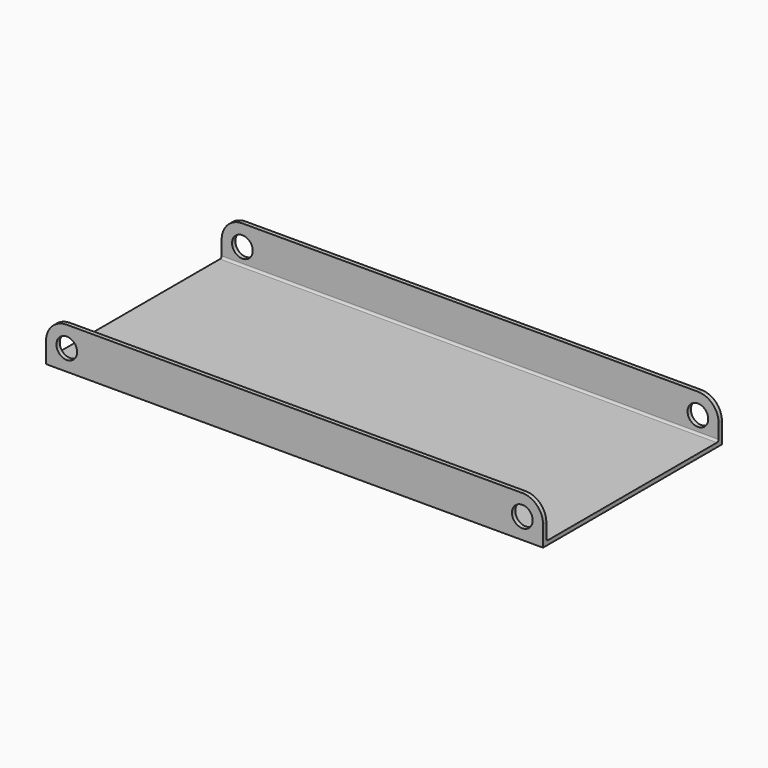
from build123d import *

# Parameters (mm, degrees)
F0_R     = 3.175
F1_DEPTH = 68.58
F2_W     = 139.7
F2_H     = 66.04
F2_W_2   = 31.8607153416
F2_W_3   = 8.809040843
F3_DEPTH = 11.43
F4_R     = 0.635


with BuildPart() as f1:
    # F0 (on Front) → F1 (new body)
    with BuildSketch(Plane.XZ):
        with BuildLine():
            Line((-152.4, 0), (0, 0))
            Line((0, 0), (0, 6.35))
            ThreePointArc((0, 6.35), (-1.8598719395, 10.8401280605), (-6.35, 12.7))
            Line((-6.35, 12.7), (-146.05, 12.7))
            ThreePointArc((-146.05, 12.7), (-150.5401280605, 10.8401280605), (-152.4, 6.35))
            Line((-152.4, 6.35), (-152.4, 0))
        make_face()
        with Locations((-146.05, 6.35)):
            Circle(F0_R, mode=Mode.SUBTRACT)
        with Locations((-6.35, 6.35)):
            Circle(F0_R, mode=Mode.SUBTRACT)
    extrude(amount=F1_DEPTH)

    # F2 (on face) → F3 (cut)
    with BuildSketch(Plane.XY.offset(12.7)):
        with Locations((-76.2, -34.29)):
            Rectangle(F2_W, F2_H)
        with Locations((-161.9803576708, -34.29)):
            Rectangle(F2_W_2, F2_H)
        with Locations((-1.9454795785, -34.29)):
            Rectangle(F2_W_3, F2_H)
    extrude(amount=-F3_DEPTH, mode=Mode.SUBTRACT)

    # F4
    f4_edges = [f1.edges().sort_by_distance(p)[0] for p in [
        (-76.2, -1.27, 1.27),
        (-76.2, -67.31, 1.27),
    ]]
    fillet(f4_edges, radius=F4_R)


solid = f1.part
